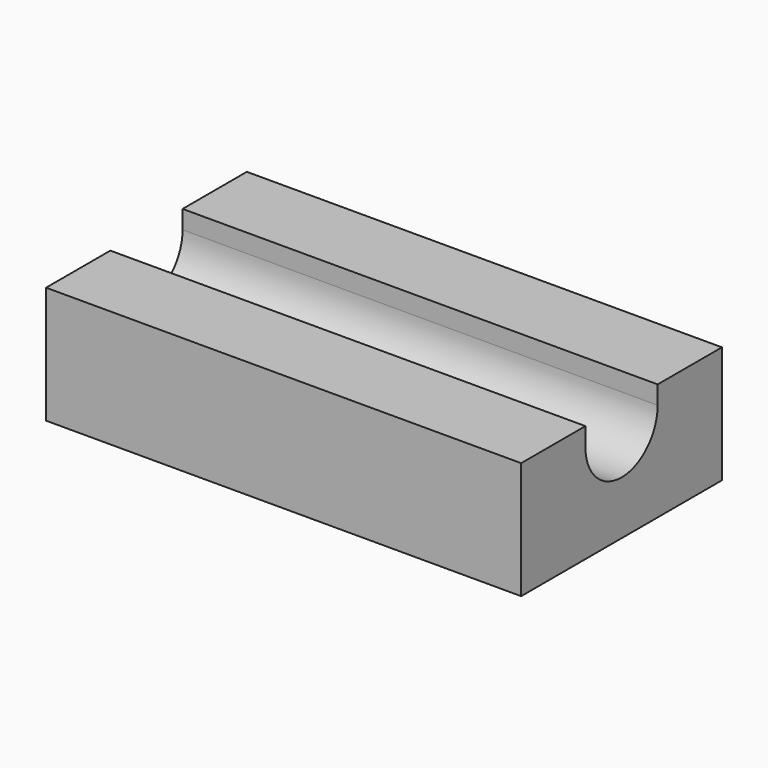
from build123d import *

# Parameters (mm, degrees)
F0_W     = 142
F0_H     = 24
F0_H_2   = 27
F1_DEPTH = 35
F3_DEPTH = 142.001


with BuildPart() as f1:
    # F0 (on Top) → F1 (new body)
    with BuildSketch(Plane.XY):
        with Locations((0, 25.5)):
            Rectangle(F0_W, F0_H)
        Rectangle(F0_W, F0_H_2)
        with Locations((0, -25.5)):
            Rectangle(F0_W, F0_H)
    extrude(amount=-F1_DEPTH)

    # F2 (on face) → F3 (cut, through all)
    with BuildSketch(Plane.YZ.offset(71)):
        with BuildLine():
            Line((-13.5, 0), (-13.5, -5.5))
            ThreePointArc((-13.5, -5.5), (0, -19), (13.5, -5.5))
            Line((13.5, -5.5), (13.5, 0))
            Line((13.5, 0), (-13.5, 0))
        make_face()
    extrude(amount=-F3_DEPTH, mode=Mode.SUBTRACT)


solid = f1.part
